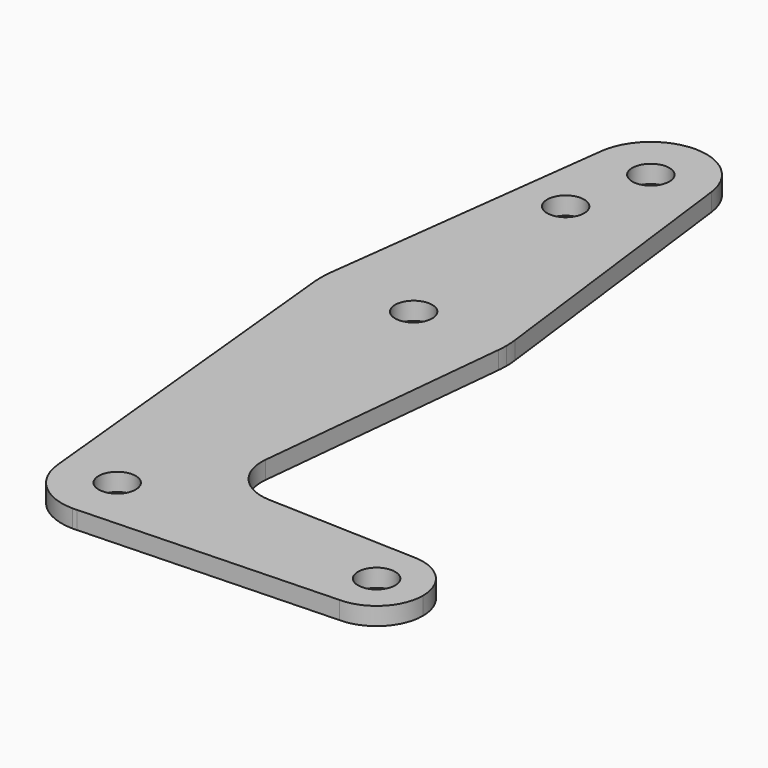
from build123d import *

# Parameters (mm, degrees)
F0_R     = 3.175
F1_DEPTH = 3.048


with BuildPart() as f1:
    # F0 (on Top) → F1 (new body)
    with BuildSketch(Plane.XY):
        with BuildLine():
            ThreePointArc((0.67949, -9.500732), (6.97129, -6.490511), (9.525, 0))
            ThreePointArc((9.525, 0), (-0.476848, 9.513056), (-9.477255, -0.9525))
            ThreePointArc((-9.477255, -0.9525), (-6.389564, -7.063929), (0, -9.525))
            Line((0, -9.525), (0.67949, -9.500732))
        make_face()
        Circle(F0_R, mode=Mode.SUBTRACT)
        with BuildLine():
            ThreePointArc((-9.477255, -0.9525), (-0.476848, 9.513056), (9.525, 0))
            ThreePointArc((9.525, 0), (6.97129, -6.490511), (0.67949, -9.500732))
            Line((0.67949, -9.500732), (44.45, -7.9375))
            ThreePointArc((44.45, -7.9375), (36.5125, 0), (44.45, 7.9375))
            Line((44.45, 7.9375), (18.967215, 8.847599))
            ThreePointArc((18.967215, 8.847599), (13.260694, 11.565663), (11.340621, 17.587754))
            Line((11.340621, 17.587754), (15.795426, 61.912499))
            ThreePointArc((15.795426, 61.912499), (0, 47.625), (-15.795426, 61.9125))
            Line((-15.795426, 61.9125), (-9.477255, -0.9525))
        make_face()
        with BuildLine():
            ThreePointArc((0, -9.525), (0.339962, -9.518931), (0.67949, -9.500732))
            Line((0.67949, -9.500732), (0, -9.525))
        make_face()
        with BuildLine():
            ThreePointArc((-15.750488, 65.484374), (-15.873744, 63.699705), (-15.795426, 61.9125))
            ThreePointArc((-15.795426, 61.9125), (0, 47.625), (15.795426, 61.912499))
            ThreePointArc((15.795426, 61.912499), (15.855094, 62.705253), (15.875, 63.5))
            ThreePointArc((15.875, 63.5), (15.843842, 64.494138), (15.750488, 65.484374))
            ThreePointArc((15.750488, 65.484374), (0, 79.375), (-15.750488, 65.484374))
        make_face()
        with Locations((0, 63.5)):
            Circle(F0_R, mode=Mode.SUBTRACT)
        with BuildLine():
            ThreePointArc((44.45, 7.9375), (36.5125, 0), (44.45, -7.9375))
            ThreePointArc((44.45, -7.9375), (50.06266, -5.61266), (52.3875, 0))
            ThreePointArc((52.3875, 0), (50.06266, 5.61266), (44.45, 7.9375))
        make_face()
        with Locations((44.45, 0)):
            Circle(F0_R, mode=Mode.SUBTRACT)
        with BuildLine():
            Line((-9.450293, 115.490625), (-15.750488, 65.484374))
            ThreePointArc((-15.750488, 65.484374), (0, 79.375), (15.750488, 65.484374))
            Line((15.750488, 65.484374), (9.450293, 115.490625))
            ThreePointArc((9.450293, 115.490625), (9.506305, 114.896483), (9.525, 114.3))
            ThreePointArc((9.525, 114.3), (-0.596483, 104.793695), (-9.450293, 115.490625))
        make_face()
        with Locations((-3.175, 100.0252)):
            Circle(F0_R, mode=Mode.SUBTRACT)
        with BuildLine():
            ThreePointArc((9.450293, 115.490625), (0, 123.825), (-9.450293, 115.490625))
            ThreePointArc((-9.450293, 115.490625), (-0.596483, 104.793695), (9.525, 114.3))
            ThreePointArc((9.525, 114.3), (9.506305, 114.896483), (9.450293, 115.490625))
        make_face()
        with Locations((0, 114.3)):
            Circle(F0_R, mode=Mode.SUBTRACT)
    extrude(amount=F1_DEPTH)


solid = f1.part
